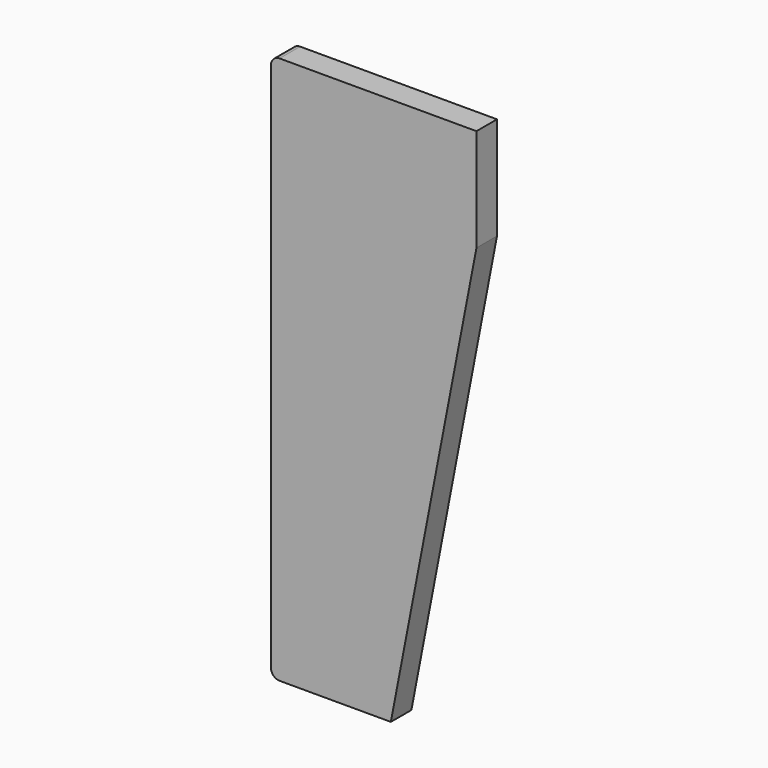
from build123d import *

# Parameters (mm, degrees)
F1_DEPTH = 19.05


with BuildPart() as f1:
    # F0 (on Front) → F1 (new body)
    with BuildSketch(Plane.XZ):
        with BuildLine():
            Line((-233.45189, 237.994913), (-379.50189, 237.994913))
            ThreePointArc((-379.50189, 237.994913), (-383.992018, 236.135041), (-385.85189, 231.644913))
            Line((-385.85189, 231.644913), (-385.85189, -162.055087))
            ThreePointArc((-385.85189, -162.055087), (-383.992018, -166.545215), (-379.50189, -168.405087))
            Line((-379.50189, -168.405087), (-296.95189, -168.405087))
            Line((-296.95189, -168.405087), (-233.45189, 161.794913))
            Line((-233.45189, 161.794913), (-233.45189, 237.994913))
        make_face()
    extrude(amount=F1_DEPTH)


solid = f1.part
